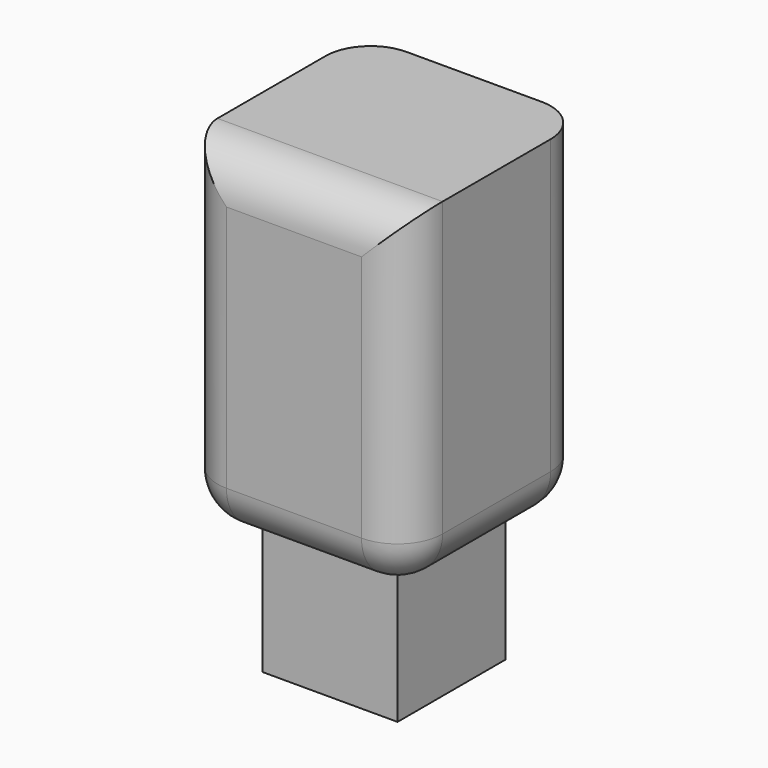
from build123d import *

# Parameters (mm, degrees)
F0_W      = 25.4
F0_H      = 25.4
F1_DEPTH  = 38.1
F2_R      = 5.08
F3_R      = 5.08
F1_FACE_W = 15.24
F1_FACE_H = 15.24
F4_DEPTH  = 15.24


with BuildPart() as f1:
    # F0 (on Top) → F1 (new body)
    with BuildSketch(Plane.XY):
        Rectangle(F0_W, F0_H)
    extrude(amount=-F1_DEPTH)

    # F2
    f2_edges = [f1.edges().sort_by_distance(p)[0] for p in [
        (-12.7, 0, -38.1),
    ]]
    fillet(f2_edges, radius=F2_R)

    # F3
    f3_edges = [f1.edges().sort_by_distance(p)[0] for p in [
        (2.54, -12.7, -38.1),
        (-7.62, 0, -38.1),
        (12.7, 0, -38.1),
        (2.54, 12.7, -38.1),
        (-12.7, -12.7, -16.51),
        (-11.212102, -12.7, -36.612102),
        (0, -12.7, 0),
        (12.7, -12.7, -19.05),
        (12.7, 12.7, -19.05),
    ]]
    fillet(f3_edges, radius=F3_R)

    # F1_face (on face) → F4 (join)
    with BuildSketch(Plane(origin=(0, 0, -38.1), x_dir=(1, 0, 0), z_dir=(0, 0, -1))):
        Rectangle(F1_FACE_W, F1_FACE_H)
    extrude(amount=F4_DEPTH)


solid = f1.part
